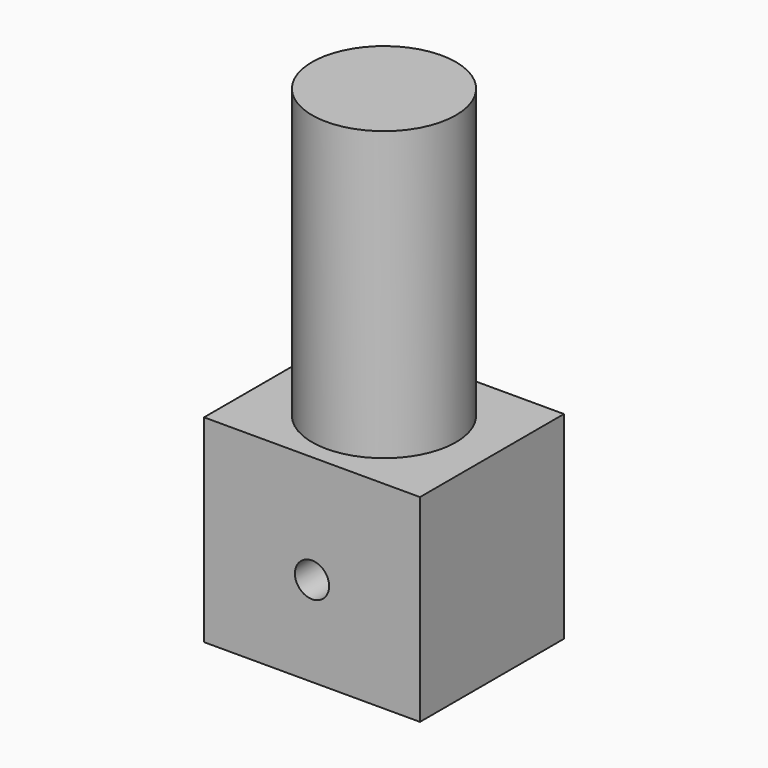
from build123d import *

# Parameters (mm, degrees)
F0_W     = 12
F0_H     = 10
F1_DEPTH = 9
F2_R     = 0.95
F3_DEPTH = 10
F4_W     = 12
F4_H     = 10
F5_DEPTH = 2
F6_R     = 4
F7_DEPTH = 16


with BuildPart() as f1:
    # F0 (on Top) → F1 (new body)
    with BuildSketch(Plane.XY):
        Rectangle(F0_W, F0_H)
        with BuildLine():
            ThreePointArc((-1.939072, -1.95), (-2.75, 0), (-1.939072, 1.95))
            Line((-1.939072, 1.95), (1.939072, 1.95))
            ThreePointArc((1.939072, 1.95), (2.75, 0), (1.939072, -1.95))
            Line((1.939072, -1.95), (-1.939072, -1.95))
        make_face(mode=Mode.SUBTRACT)
    extrude(amount=F1_DEPTH)

    # F2 (on face) → F3 (cut, through all)
    with BuildSketch(Plane.XZ.offset(5)):
        with Locations((0, 5)):
            Circle(F2_R)
    extrude(amount=-F3_DEPTH, mode=Mode.SUBTRACT)

    # F4 (on face) → F5 (join)
    with BuildSketch(Plane.XY.offset(9)):
        Rectangle(F4_W, F4_H)
    extrude(amount=F5_DEPTH)

    # F6 (on face) → F7 (join)
    with BuildSketch(Plane.XY.offset(11)):
        Circle(F6_R)
    extrude(amount=F7_DEPTH)


solid = f1.part
